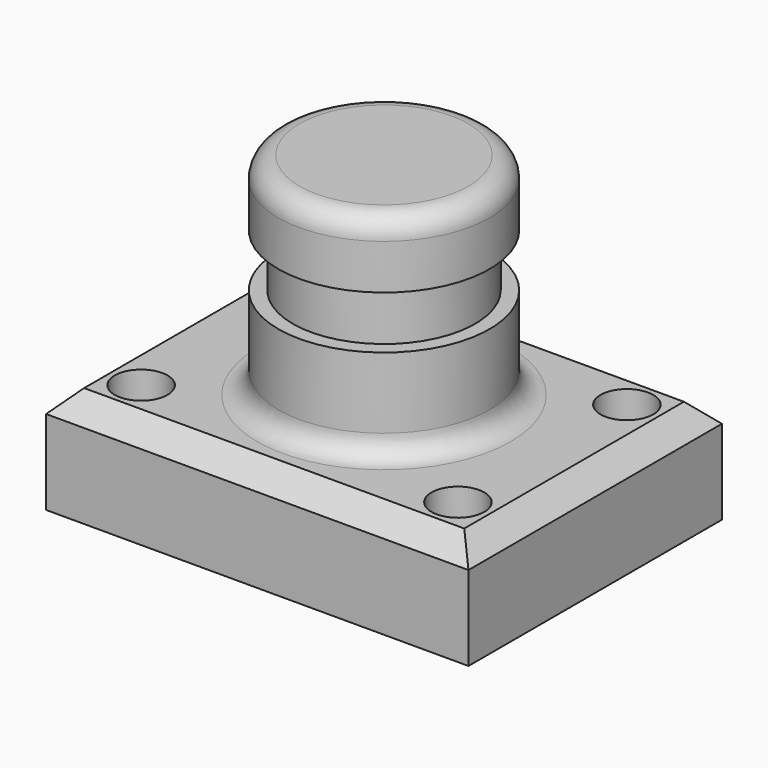
from build123d import *

# Parameters (mm, degrees)
F0_W     = 101.6
F0_H     = 76.2
F1_DEPTH = 25.4
F2_R     = 6.35
F3_DEPTH = 25.4
F4_W     = 25.4
F4_H     = 50.8
F6_W     = 16.163637
F6_H     = 12.7
F8_SIZE  = 5.08
F9_R     = 5.08


with BuildPart() as f1:
    # F0 (on Top) → F1 (new body)
    with BuildSketch(Plane.XY):
        Rectangle(F0_W, F0_H)
    extrude(amount=F1_DEPTH)

    # F2 (on face) → F3 (cut)
    with BuildSketch(Plane.XY.offset(25.4)):
        with Locations((-38.1, 25.4)):
            Circle(F2_R)
        with Locations((38.1, 25.4)):
            Circle(F2_R)
        with Locations((38.1, -25.4)):
            Circle(F2_R)
        with Locations((-38.1, -25.4)):
            Circle(F2_R)
    extrude(amount=-F3_DEPTH, mode=Mode.SUBTRACT)

    # F4 (on Front) → F5 (revolve)
    with BuildSketch(Plane.XZ):
        with Locations((-12.7, 50.8)):
            Rectangle(F4_W, F4_H)
    revolve(axis=Axis((0, 0, 50.8), (0, 0, 1)))

    # F6 (on Front) → F7 (revolve, cut)
    with BuildSketch(Plane.XZ):
        with Locations((-30.018182, 53.93349)):
            Rectangle(F6_W, F6_H)
    revolve(axis=Axis((0, 0, 76.2), (0, 0, -1)), mode=Mode.SUBTRACT)

    # F8
    f8_edges = [f1.edges().sort_by_distance(p)[0] for p in [
        (0, -38.1, 25.4),
        (-50.8, 0, 25.4),
        (0, 38.1, 25.4),
        (50.8, 0, 25.4),
    ]]
    chamfer(f8_edges, length=F8_SIZE)

    # F9
    f9_edges = [f1.edges().sort_by_distance(p)[0] for p in [
        (25.4, 0, 25.4),
        (25.4, 0, 76.2),
    ]]
    fillet(f9_edges, radius=F9_R)


solid = f1.part
